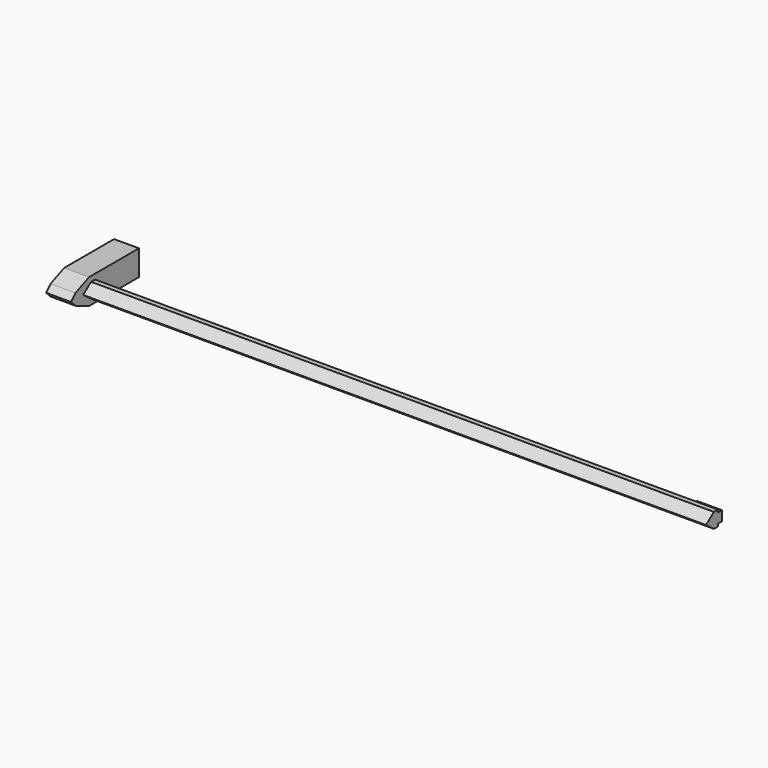
from build123d import *

# Parameters (mm, degrees)
F1_DEPTH = 125
F2_DEPTH = 5
F4_DEPTH = 1
F5_DEPTH = 10


with BuildPart() as f1:
    # F0 (on Right) → F1 (new body)
    with BuildSketch(Plane.YZ):
        Polygon((-8.6018808093, -7.6071059655), (-7.6018808093, -7.6071059655), (-7.6018808093, -4.6071059655), (-8.6018808093, -4.6071059655), (-10.6018808093, -6.1071059655), align=None)
    extrude(amount=F1_DEPTH)

    # F0 (on Right) → F2 (join)
    with BuildSketch(Plane.YZ):
        Polygon((-12.5160943717, -7.2428924032), (-9.1018808093, -8.6571059655), (-6.6018808093, -8.6571059655), (-6.6018808093, -3.5571059655), (-9.1018808093, -3.5571059655), (-12.5160943717, -4.9713195279), (-13.6518808093, -6.1071059655), align=None)
        Polygon((-7.6018808093, -4.6071059655), (-7.6018808093, -7.6071059655), (-8.6018808093, -7.6071059655), (-10.6018808093, -6.1071059655), (-8.6018808093, -4.6071059655), align=None, mode=Mode.SUBTRACT)
        Polygon((-8.6018808093, -7.6071059655), (-7.6018808093, -7.6071059655), (-7.6018808093, -4.6071059655), (-8.6018808093, -4.6071059655), (-10.6018808093, -6.1071059655), align=None)
    extrude(amount=-F2_DEPTH)

    # F3 (on face) → F4 (join)
    with BuildSketch(Plane(origin=(0, -7.6018808093, 0), x_dir=(-1, 0, 0), z_dir=(0, 1, 0))):
        Polygon((-125, -7.1071059655), (-120, -7.1071059655), (-120, -6.1071059655), (-120, -5.1071059655), (-125, -5.1071059655), align=None)
    extrude(amount=F4_DEPTH)

    # F5 (add): a face of the model
    f5_faces = [f1.faces().sort_by_distance(p)[0] for p in [
        (-2.5, -6.6018808093, -6.1071059655),
    ]]
    extrude(f5_faces, amount=F5_DEPTH)


solid = f1.part
